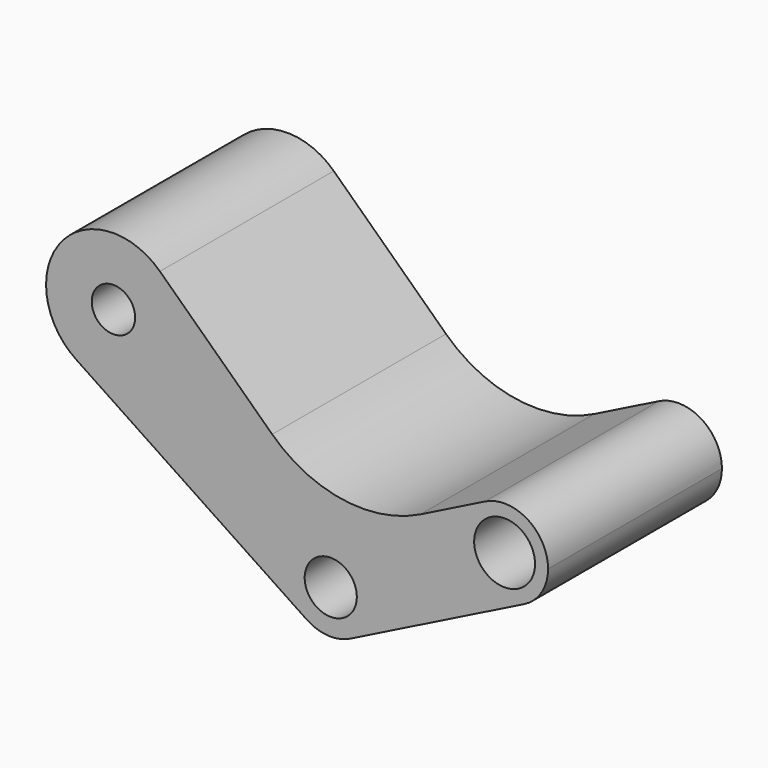
from build123d import *

# Parameters (mm, degrees)
F0_R     = 5
F0_R_2   = 6
F0_R_3   = 7
F1_DEPTH = 25


with BuildPart() as f1:
    # F0 (on Front) → F1 (new body, symmetric)
    with BuildSketch(Plane.XZ):
        with BuildLine():
            ThreePointArc((-39.307976, 51.221882), (-62.101136, 49.685686), (-58.607353, 27.109559))
            ThreePointArc((-58.607353, 27.109559), (-42.691237, 26.33135), (-34.5, 40))
            ThreePointArc((-34.5, 40), (-35.752608, 46.104246), (-39.307976, 51.221882))
        make_face()
        with Locations((-50, 40)):
            Circle(F0_R, mode=Mode.SUBTRACT)
        with BuildLine():
            ThreePointArc((-5.553131, -8.316414), (-4.715331, 8.818484), (10, 0))
            ThreePointArc((10, 0), (8.506508, -5.257311), (4.472136, -8.944272))
            Line((4.472136, -8.944272), (44.472136, 11.055728))
            ThreePointArc((44.472136, 11.055728), (31.055728, 15.527864), (35.527864, 28.944272))
            Line((35.527864, 28.944272), (20.633886, 21.497283))
            ThreePointArc((20.633886, 21.497283), (2.770286, 18.661555), (-13.476761, 26.610327))
            Line((-13.476761, 26.610327), (-39.307976, 51.221882))
            ThreePointArc((-39.307976, 51.221882), (-35.752608, 46.104246), (-34.5, 40))
            ThreePointArc((-34.5, 40), (-42.691237, 26.33135), (-58.607353, 27.109559))
            Line((-58.607353, 27.109559), (-5.553131, -8.316414))
        make_face()
        with BuildLine():
            ThreePointArc((4.472136, -8.944272), (8.506508, -5.257311), (10, 0))
            ThreePointArc((10, 0), (-4.715331, 8.818484), (-5.553131, -8.316414))
            ThreePointArc((-5.553131, -8.316414), (-0.625051, -9.980446), (4.472136, -8.944272))
        make_face()
        Circle(F0_R_2, mode=Mode.SUBTRACT)
        with BuildLine():
            ThreePointArc((35.527864, 28.944272), (31.055728, 15.527864), (44.472136, 11.055728))
            ThreePointArc((44.472136, 11.055728), (48.506508, 14.742689), (50, 20))
            ThreePointArc((50, 20), (45.257311, 28.506508), (35.527864, 28.944272))
        make_face()
        with Locations((40, 20)):
            Circle(F0_R_3, mode=Mode.SUBTRACT)
    extrude(amount=F1_DEPTH, both=True)


solid = f1.part
